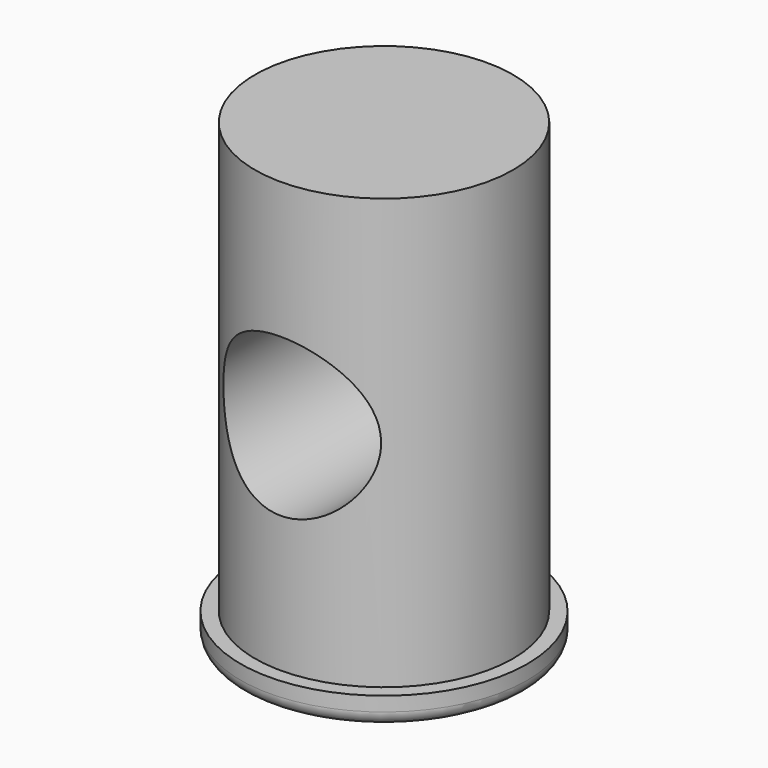
from build123d import *

# Parameters (mm, degrees)
F0_R     = 100
F0_R_2   = 90
F1_DEPTH = 20
F2_DEPTH = 320
F3_R     = 55
F4_DEPTH = 147
F5_R     = 10


with BuildPart() as f1:
    # F0 (on Top) → F1 (new body)
    with BuildSketch(Plane.XY):
        Circle(F0_R)
        Circle(F0_R_2, mode=Mode.SUBTRACT)
    extrude(amount=F1_DEPTH)

    # F0 (on Top) → F2 (join)
    with BuildSketch(Plane.XY):
        Circle(F0_R_2)
    extrude(amount=F2_DEPTH)

    # F3 (on Front) → F4 (cut, symmetric)
    with BuildSketch(Plane.XZ):
        with Locations((0, 170)):
            Circle(F3_R)
    extrude(amount=F4_DEPTH, both=True, mode=Mode.SUBTRACT)

    # F5
    f5_edges = [f1.edges().sort_by_distance(p)[0] for p in [
        (-100, 0, 0),
    ]]
    fillet(f5_edges, radius=F5_R)


solid = f1.part
